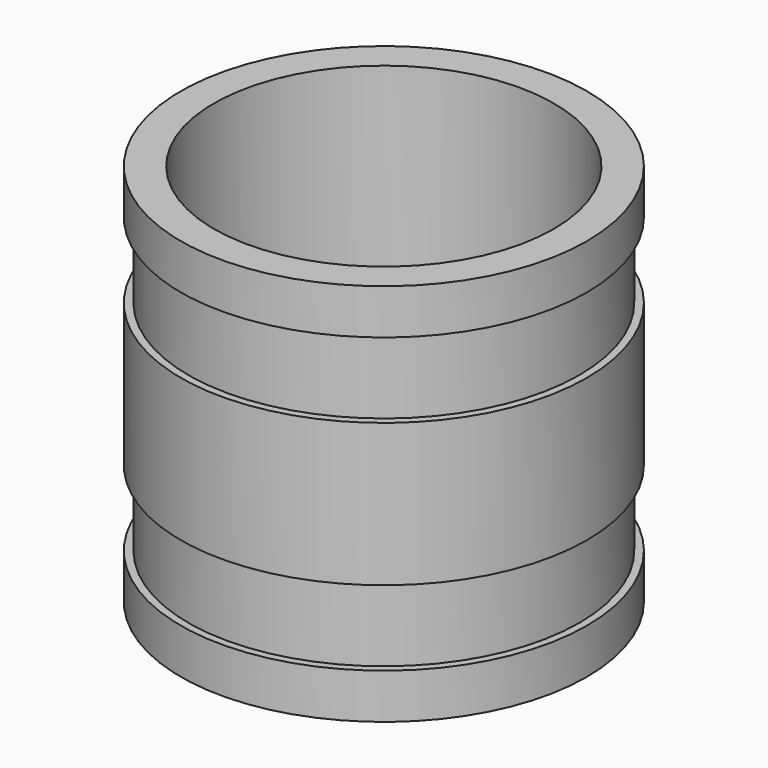
from build123d import *

# Parameters (mm, degrees)
F0_R      = 27
F1_DEPTH  = 6
F2_R      = 26
F3_DEPTH  = 10
F4_R      = 27
F5_DEPTH  = 19
F6_R      = 26
F7_DEPTH  = 10
F8_R      = 27
F9_DEPTH  = 6
F10_R     = 22.6
F11_DEPTH = 51.001


with BuildPart() as f1:
    # F0 (on Top) → F1 (new body)
    with BuildSketch(Plane.XY):
        Circle(F0_R)
    extrude(amount=F1_DEPTH)

    # F2 (on face) → F3 (join)
    with BuildSketch(Plane.XY.offset(6)):
        Circle(F2_R)
    extrude(amount=F3_DEPTH)

    # F4 (on face) → F5 (join)
    with BuildSketch(Plane.XY.offset(16)):
        Circle(F4_R)
    extrude(amount=F5_DEPTH)

    # F6 (on face) → F7 (join)
    with BuildSketch(Plane.XY.offset(35)):
        Circle(F6_R)
    extrude(amount=F7_DEPTH)

    # F8 (on face) → F9 (join)
    with BuildSketch(Plane.XY.offset(45)):
        Circle(F8_R)
    extrude(amount=F9_DEPTH)

    # F10 (on face) → F11 (cut, through all)
    with BuildSketch(Plane(origin=(0, 0, 0), x_dir=(1, 0, 0), z_dir=(0, 0, -1))):
        Circle(F10_R)
    extrude(amount=-F11_DEPTH, mode=Mode.SUBTRACT)


solid = f1.part
